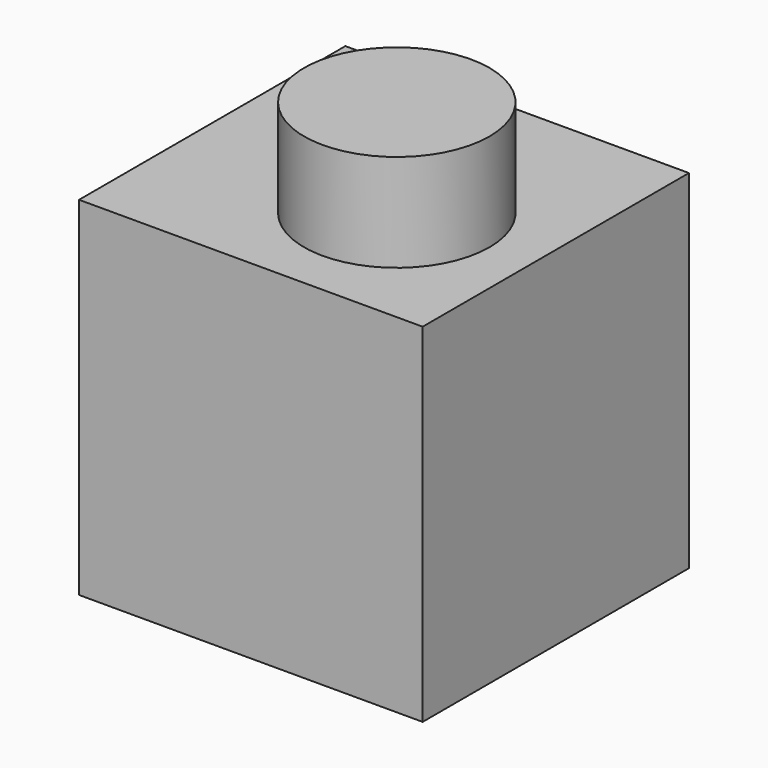
from build123d import *

# Parameters (mm, degrees)
F0_W     = 78.31648
F0_H     = 81.86093
F1_DEPTH = 80.844238
F2_R     = 21.821518
F3_DEPTH = 22.957228


with BuildPart() as f1:
    # F0 (on Right) → F1 (new body)
    with BuildSketch(Plane.YZ):
        with Locations((6.794885, -14.208533)):
            Rectangle(F0_W, F0_H)
    extrude(amount=F1_DEPTH)

    # F2 (on face) → F3 (join)
    with BuildSketch(Plane.XY.offset(26.721932)):
        with Locations((48.863035, 0)):
            Circle(F2_R)
    extrude(amount=F3_DEPTH)


solid = f1.part
